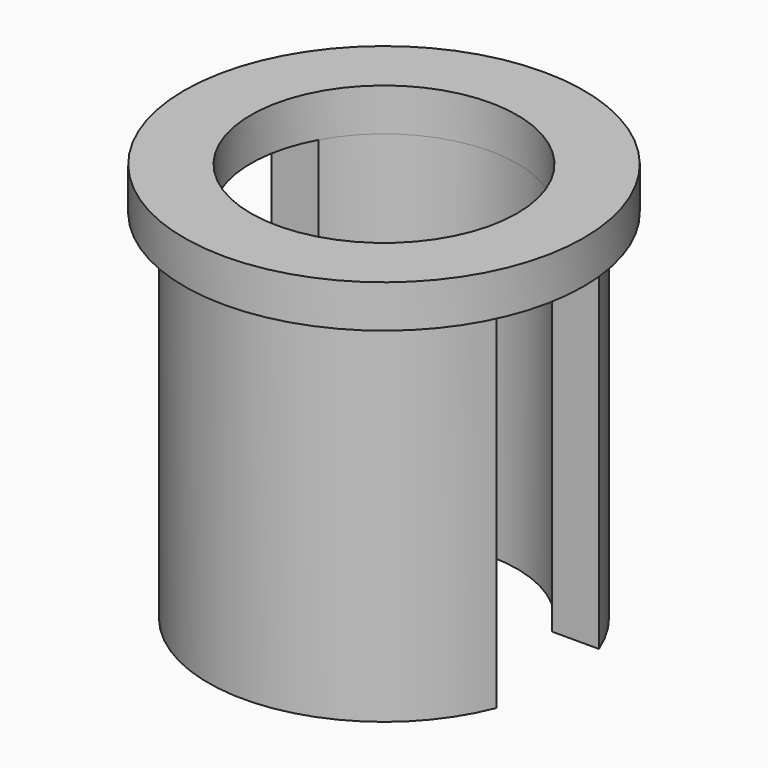
from build123d import *

# Parameters (mm, degrees)
F0_R     = 3.75
F0_R_2   = 2.5
F1_DEPTH = 0.8
F3_DEPTH = 6.7


with BuildPart() as f1:
    # F0 (on Top) → F1 (new body)
    with BuildSketch(Plane.XY):
        Circle(F0_R)
        Circle(F0_R_2, mode=Mode.SUBTRACT)
    extrude(amount=F1_DEPTH)

    # F2 (on face) → F3 (join)
    with BuildSketch(Plane(origin=(0, 0, 0), x_dir=(1, 0, 0), z_dir=(0, 0, -1))):
        with BuildLine():
            Line((-2.193171, -1.2), (-3.074085, -1.2))
            ThreePointArc((-3.074085, -1.2), (0, -3.3), (3.074085, -1.2))
            Line((3.074085, -1.2), (2.193171, -1.2))
            ThreePointArc((2.193171, -1.2), (0, -2.5), (-2.193171, -1.2))
        make_face()
        with BuildLine():
            ThreePointArc((3.074085, 1.2), (0, 3.3), (-3.074085, 1.2))
            Line((-3.074085, 1.2), (-2.193171, 1.2))
            ThreePointArc((-2.193171, 1.2), (0, 2.5), (2.193171, 1.2))
            Line((2.193171, 1.2), (3.074085, 1.2))
        make_face()
    extrude(amount=F3_DEPTH)


solid = f1.part
